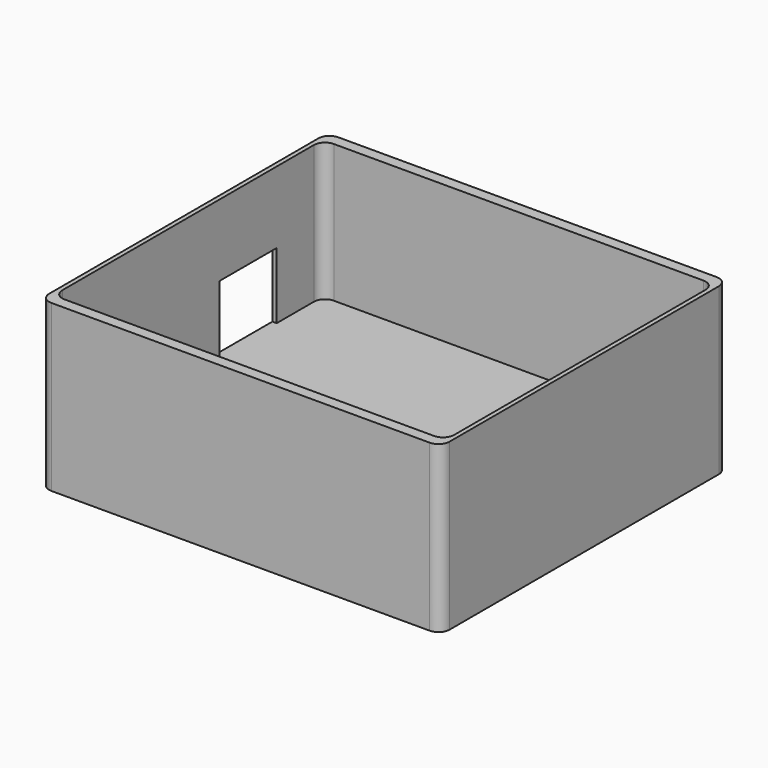
from build123d import *

# Parameters (mm, degrees)
F1_DEPTH = 5
F3_DEPTH = 25
F4_W     = 10
F4_H     = 12
F4_W_2   = 13
F5_DEPTH = 2.1


with BuildPart() as f1:
    # F0 (on Top) → F1 (new body)
    with BuildSketch(Plane.XY):
        with BuildLine():
            Line((34.28, 32.5), (-34.28, 32.5))
            ThreePointArc((-34.28, 32.5), (-35.694214, 31.914214), (-36.28, 30.5))
            Line((-36.28, 30.5), (-36.28, -30.5))
            ThreePointArc((-36.28, -30.5), (-35.694214, -31.914214), (-34.28, -32.5))
            Line((-34.28, -32.5), (34.28, -32.5))
            ThreePointArc((34.28, -32.5), (35.694214, -31.914214), (36.28, -30.5))
            Line((36.28, -30.5), (36.28, 30.5))
            ThreePointArc((36.28, 30.5), (35.694214, 31.914214), (34.28, 32.5))
        make_face()
    extrude(amount=F1_DEPTH)

    # F2 (on face) → F3 (join)
    with BuildSketch(Plane.XY.offset(5)):
        with BuildLine():
            ThreePointArc((36.28, 30.5), (35.694214, 31.914214), (34.28, 32.5))
            Line((34.28, 32.5), (-34.28, 32.5))
            ThreePointArc((-34.28, 32.5), (-35.694214, 31.914214), (-36.28, 30.5))
            Line((-36.28, 30.5), (-36.28, -30.5))
            ThreePointArc((-36.28, -30.5), (-35.694214, -31.914214), (-34.28, -32.5))
            Line((-34.28, -32.5), (34.28, -32.5))
            ThreePointArc((34.28, -32.5), (35.694214, -31.914214), (36.28, -30.5))
            Line((36.28, -30.5), (36.28, 30.5))
        make_face()
        with BuildLine():
            ThreePointArc((-35.5, 28.5), (-34.914214, 29.914214), (-33.5, 30.5))
            Line((-33.5, 30.5), (33.5, 30.5))
            ThreePointArc((33.5, 30.5), (34.914214, 29.914214), (35.5, 28.5))
            Line((35.5, 28.5), (35.5, -28.5))
            ThreePointArc((35.5, -28.5), (34.914214, -29.914214), (33.5, -30.5))
            Line((33.5, -30.5), (-33.5, -30.5))
            ThreePointArc((-33.5, -30.5), (-34.914214, -29.914214), (-35.5, -28.5))
            Line((-35.5, -28.5), (-35.5, 28.5))
        make_face(mode=Mode.SUBTRACT)
    extrude(amount=F3_DEPTH)

    # F4 (on face) → F5 (cut)
    with BuildSketch(Plane(origin=(-36.28, 0, 0), x_dir=(0, -1, 0), z_dir=(-1, 0, 0))):
        with Locations((16.33, 11)):
            Rectangle(F4_W, F4_H)
        with Locations((-13.57, 11)):
            Rectangle(F4_W_2, F4_H)
    extrude(amount=-F5_DEPTH, mode=Mode.SUBTRACT)


solid = f1.part
